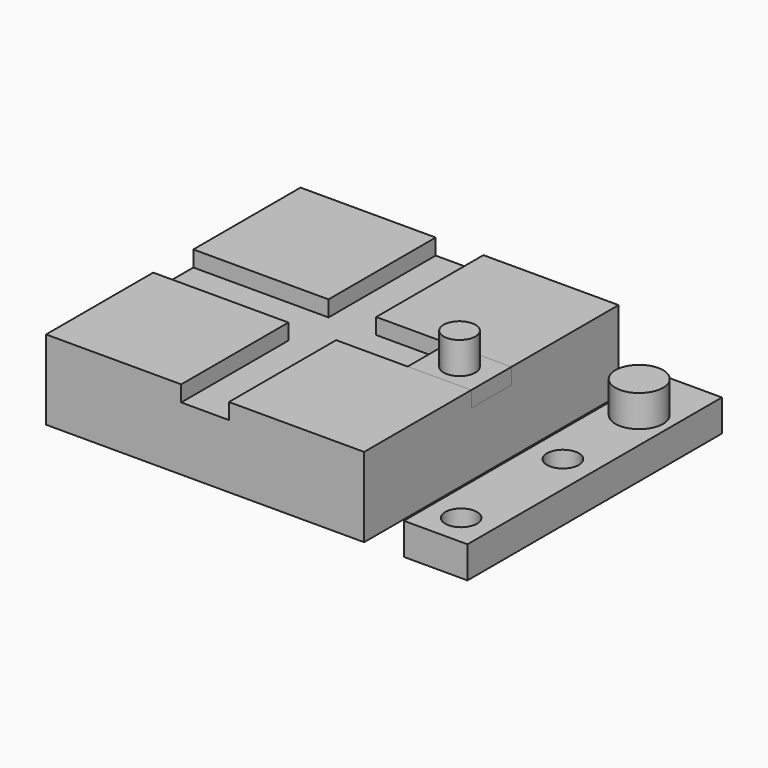
from build123d import *

# Parameters (mm, degrees)
F0_W      = 100
F0_H      = 100
F1_DEPTH  = 25
F2_W      = 15.764678
F2_H      = 5
F3_DEPTH  = 100
F4_W      = 15
F4_H      = 5
F5_DEPTH  = 100
F6_DEPTH  = 20
F7_R      = 5
F8_DEPTH  = 10
F9_W      = 20
F9_H      = 100
F9_R      = 5
F10_DEPTH = 10
F11_R     = 7.5
F12_DEPTH = 10


with BuildPart() as f1:
    # F0 (on Top) → F1 (new body)
    with BuildSketch(Plane.XY):
        Rectangle(F0_W, F0_H)
    extrude(amount=F1_DEPTH)

    # F2 (on face) → F3 (cut, through all)
    with BuildSketch(Plane.YZ.offset(50)):
        with Locations((0, 22.5)):
            Rectangle(F2_W, F2_H)
    extrude(amount=-F3_DEPTH, mode=Mode.SUBTRACT)

    # F4 (on face) → F5 (cut, through all)
    with BuildSketch(Plane.XZ.offset(50)):
        with Locations((0, 22.5)):
            Rectangle(F4_W, F4_H)
    extrude(amount=-F5_DEPTH, mode=Mode.SUBTRACT)


with BuildPart() as f6:
    # F2 (on face) → F6 (new body)
    with BuildSketch(Plane.YZ.offset(50)):
        with Locations((0, 22.5)):
            Rectangle(F2_W, F2_H)
    extrude(amount=-F6_DEPTH)

    # F7 (on face) → F8 (join)
    with BuildSketch(Plane.XY.offset(25)):
        with Locations((40, 0)):
            Circle(F7_R)
    extrude(amount=F8_DEPTH)


with BuildPart() as f10:
    # F9 (on Top) → F10 (new body)
    with BuildSketch(Plane.XY):
        with Locations((72.499827, 0)):
            Rectangle(F9_W, F9_H)
        with Locations((72.499827, -40)):
            Circle(F9_R, mode=Mode.SUBTRACT)
        with Locations((72.499827, 0)):
            Circle(F9_R, mode=Mode.SUBTRACT)
    extrude(amount=F10_DEPTH)

    # F11 (on face) → F12 (join)
    with BuildSketch(Plane.XY.offset(10)):
        with Locations((72.499827, 30)):
            Circle(F11_R)
    extrude(amount=F12_DEPTH)


solid = Compound([f1.part, f6.part, f10.part])
